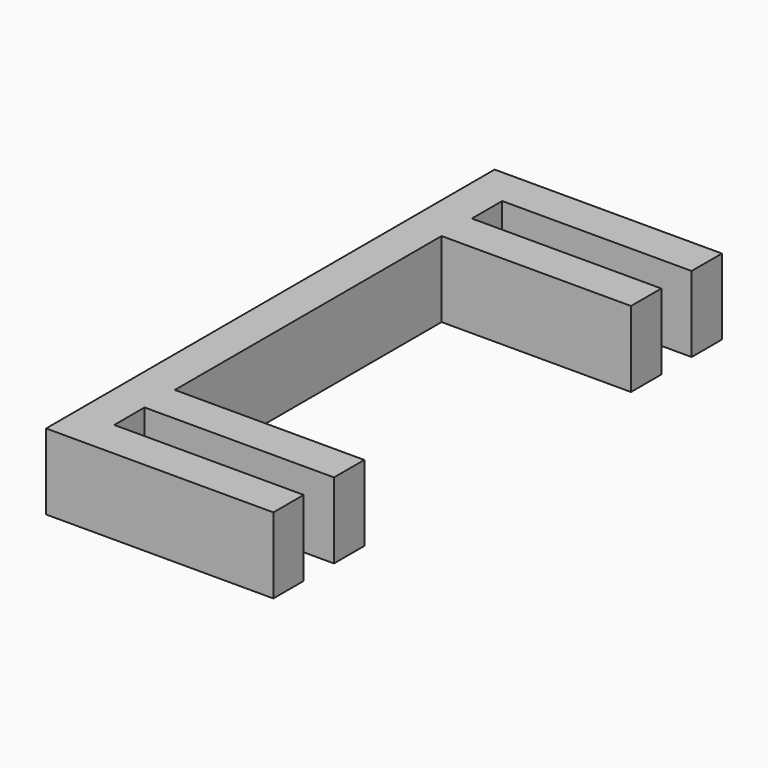
from build123d import *

# Parameters (mm, degrees)
F0_W     = 15.875
F0_H     = 3.175
F1_DEPTH = 6.35


with BuildPart() as f1:
    # F0 (on Top) → F1 (new body)
    with BuildSketch(Plane.XY):
        Polygon((0, 43.815), (0, 40.64), (3.175, 40.64), (19.05, 40.64), (19.05, 43.815), align=None)
        Polygon((0, 40.64), (0, 0), (3.175, 0), (3.175, 3.175), (3.175, 6.35), (3.175, 34.29), (3.175, 37.465), (3.175, 40.64), align=None)
        with Locations((11.1125, 35.8775)):
            Rectangle(F0_W, F0_H)
        with Locations((11.1125, 4.7625)):
            Rectangle(F0_W, F0_H)
        Polygon((3.175, 0), (0, 0), (0, -3.175), (19.05, -3.175), (19.05, 0), align=None)
    extrude(amount=F1_DEPTH)


solid = f1.part
